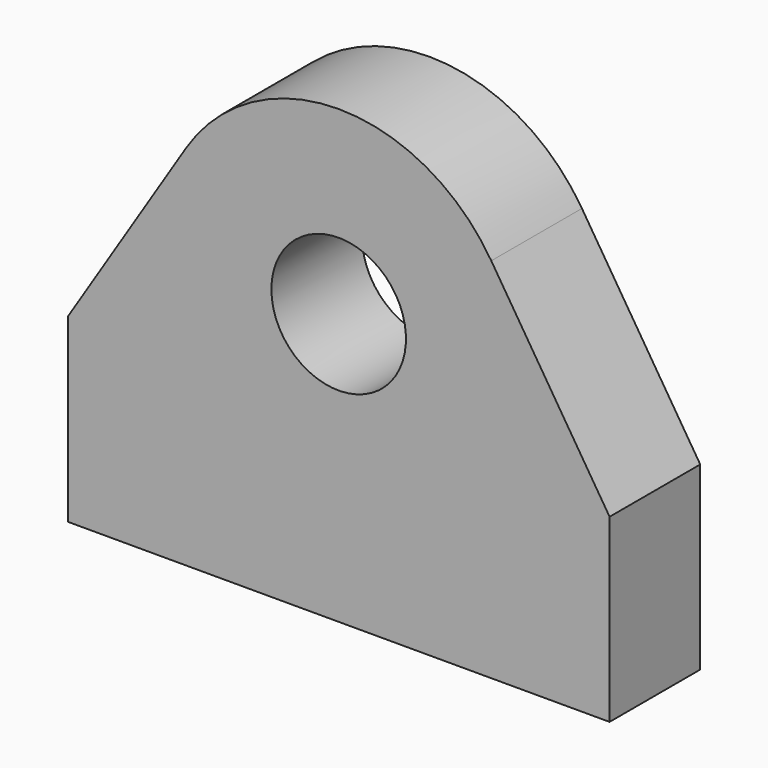
from build123d import *

# Parameters (mm, degrees)
F1_DEPTH = 16


with BuildPart() as f1:
    # F0 (on Front) → F1 (new body, symmetric)
    with BuildSketch(Plane.XZ):
        with BuildLine():
            Line((76.5, -25.5), (43.092398, 27.277193))
            ThreePointArc((43.092398, 27.277193), (0, 51), (-43.092398, 27.277193))
            Line((-43.092398, 27.277193), (-76.5, -25.5))
            Line((-76.5, -25.5), (-76.5, -76.5))
            Line((-76.5, -76.5), (76.5, -76.5))
            Line((76.5, -76.5), (76.5, -25.5))
        make_face()
        with BuildLine():
            ThreePointArc((19, 0), (0, -19), (-19, 0))
            ThreePointArc((-19, 0), (0, 19), (19, 0))
        make_face(mode=Mode.SUBTRACT)
    extrude(amount=F1_DEPTH, both=True)


solid = f1.part
